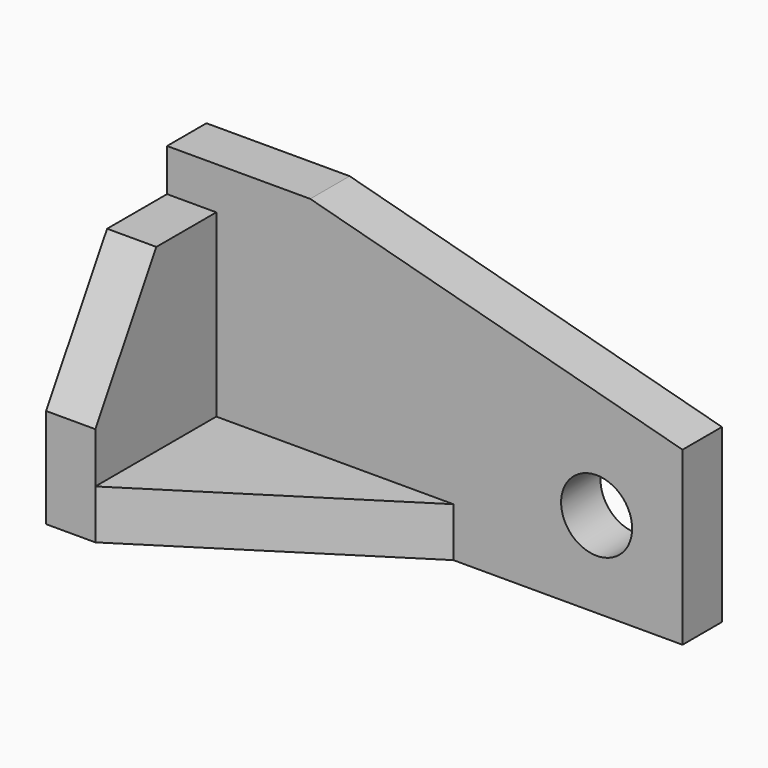
from build123d import *

# Parameters (mm, degrees)
F3_DEPTH = 10.922
F2_R     = 7.874
F2_W     = 10.922
F2_H     = 60.198
F4_DEPTH = 10.922
F5_DEPTH = 10.922


with BuildPart() as f3:
    # F1 (on Top) → F3 (new body)
    with BuildSketch(Plane.XY):
        Polygon((52.578, 0), (0, 0), (0, -33.528), align=None)
    extrude(amount=F3_DEPTH)

    # F2 (on Front) → F4 (join)
    with BuildSketch(Plane.XZ):
        Polygon((0, 60.198), (0, 0), (84.328, 0), (103.378, 0), (103.378, 19.05), (103.378, 38.078794), (20.828, 60.198), align=None)
        with Locations((84.328, 19.05)):
            Circle(F2_R, mode=Mode.SUBTRACT)
        with Locations((-5.461, 30.099)):
            Rectangle(F2_W, F2_H)
    extrude(amount=-F4_DEPTH)

    # F0 (on Right) → F5 (join)
    with BuildSketch(Plane.YZ):
        Polygon((-33.528, 0), (0, 0), (0, 50.8), (-16.613329, 50.8), (-33.528, 22.098), align=None)
    extrude(amount=-F5_DEPTH)


solid = f3.part
